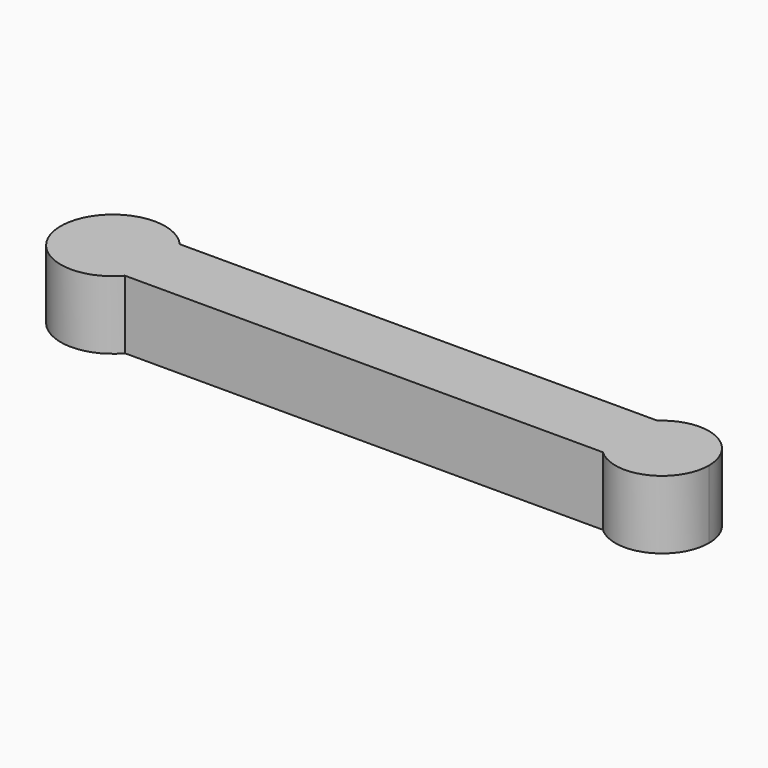
from build123d import *

# Parameters (mm, degrees)
F3_DEPTH = 10


with BuildPart() as f3:
    # F2 (on face) → F3 (new body)
    with BuildSketch(Plane.XY):
        with BuildLine():
            ThreePointArc((-207.1709679964, -147.5133103132), (-207.6520447758, -144.8452854186), (-209.0346813202, -142.5133103132))
            Line((-209.0346813202, -142.5133103132), (-209.0346813202, -152.5133103132))
            ThreePointArc((-209.0346813202, -152.5133103132), (-207.6520447758, -150.1813352079), (-207.1709679964, -147.5133103132))
        make_face()
        with BuildLine():
            Line((-139.082004335, -142.5133103132), (-209.0346813202, -142.5133103132))
            ThreePointArc((-209.0346813202, -142.5133103132), (-207.6520447758, -144.8452854186), (-207.1709679964, -147.5133103132))
            ThreePointArc((-207.1709679964, -147.5133103132), (-207.6520447758, -150.1813352079), (-209.0346813202, -152.5133103132))
            Line((-209.0346813202, -152.5133103132), (-139.082004335, -152.5133103132))
            ThreePointArc((-139.082004335, -152.5133103132), (-141.2519729984, -147.5133103132), (-139.082004335, -142.5133103132))
        make_face()
        with BuildLine():
            Line((-209.0346813202, -152.5133103132), (-209.0346813202, -142.5133103132))
            ThreePointArc((-209.0346813202, -142.5133103132), (-222.4487615225, -147.5133103132), (-209.0346813202, -152.5133103132))
        make_face()
        with BuildLine():
            ThreePointArc((-127.5611006367, -147.5133103132), (-131.6812494932, -141.2337557505), (-139.082004335, -142.5133103132))
            Line((-139.082004335, -142.5133103132), (-139.0346813202, -142.5133103132))
            Line((-139.0346813202, -142.5133103132), (-139.0346813202, -152.5133103132))
            Line((-139.0346813202, -152.5133103132), (-139.082004335, -152.5133103132))
            ThreePointArc((-139.082004335, -152.5133103132), (-131.6812494932, -153.792864876), (-127.5611006367, -147.5133103132))
        make_face()
        with BuildLine():
            Line((-139.0346813202, -142.5133103132), (-139.082004335, -142.5133103132))
            ThreePointArc((-139.082004335, -142.5133103132), (-141.2519729984, -147.5133103132), (-139.082004335, -152.5133103132))
            Line((-139.082004335, -152.5133103132), (-139.0346813202, -152.5133103132))
            Line((-139.0346813202, -152.5133103132), (-139.0346813202, -142.5133103132))
        make_face()
    extrude(amount=F3_DEPTH)


solid = f3.part
